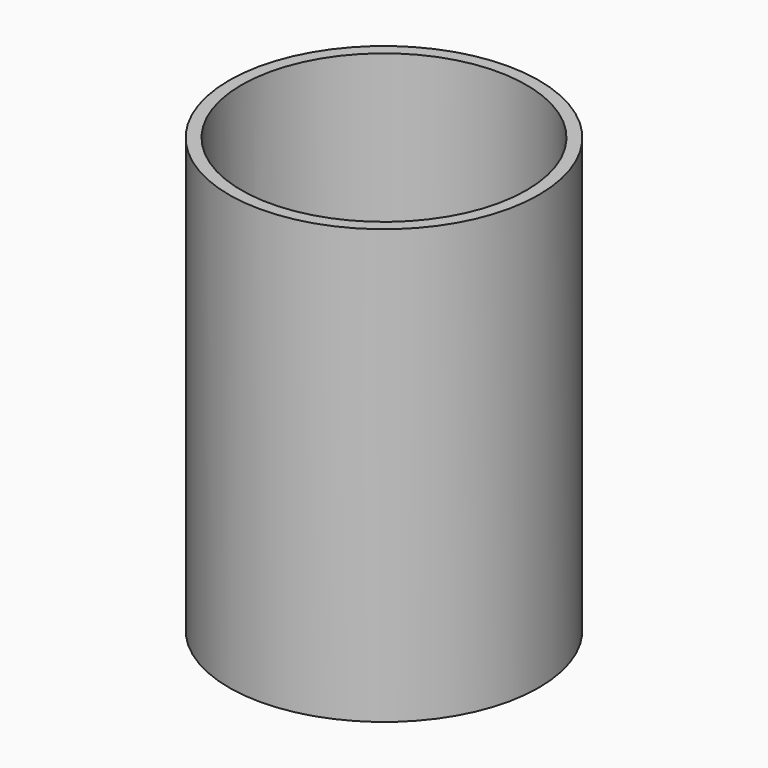
from build123d import *

# Parameters (mm, degrees)
SKETCH001_R   = 25
SKETCH001_R_2 = 23
PAD_DEPTH     = 70
SKETCH_R      = 2.3
POCKET_DEPTH  = 25.001


with BuildPart() as part:
    # Sketch001 → Pad (new body)
    with BuildSketch(Plane.XY):
        Circle(SKETCH001_R)
        Circle(SKETCH001_R_2, mode=Mode.SUBTRACT)
    extrude(amount=PAD_DEPTH)

    # Sketch → Pocket (cut, through all)
    with BuildSketch(Plane.YZ):
        with Locations((0, 41)):
            Circle(SKETCH_R)
    extrude(amount=-POCKET_DEPTH, mode=Mode.SUBTRACT)


solid = part.part
